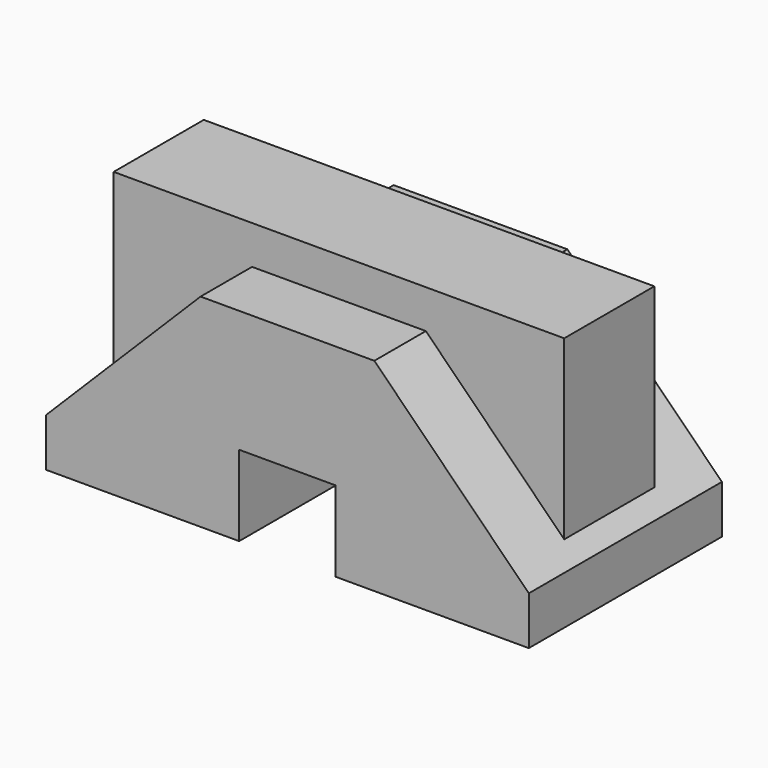
from build123d import *

# Parameters (mm, degrees)
F1_DEPTH = 37.5
F2_DEPTH = 17.5


with BuildPart() as f1:
    # F0 (on Front) → F1 (new body, symmetric)
    with BuildSketch(Plane.XZ):
        Polygon((15, -37.5), (75, -37.5), (75, -22.5), (70, -17.5), (27, 25.5), (-27, 25.5), (-70, -17.5), (-75, -22.5), (-75, -37.5), (-15, -37.5), (-15, -12.5), (15, -12.5), align=None)
    extrude(amount=F1_DEPTH, both=True)

    # F0 (on Front) → F2 (join, symmetric)
    with BuildSketch(Plane.XZ):
        Polygon((27, 25.5), (70, -17.5), (70, 37.5), (-70, 37.5), (-70, -17.5), (-27, 25.5), align=None)
    extrude(amount=F2_DEPTH, both=True)


solid = f1.part
